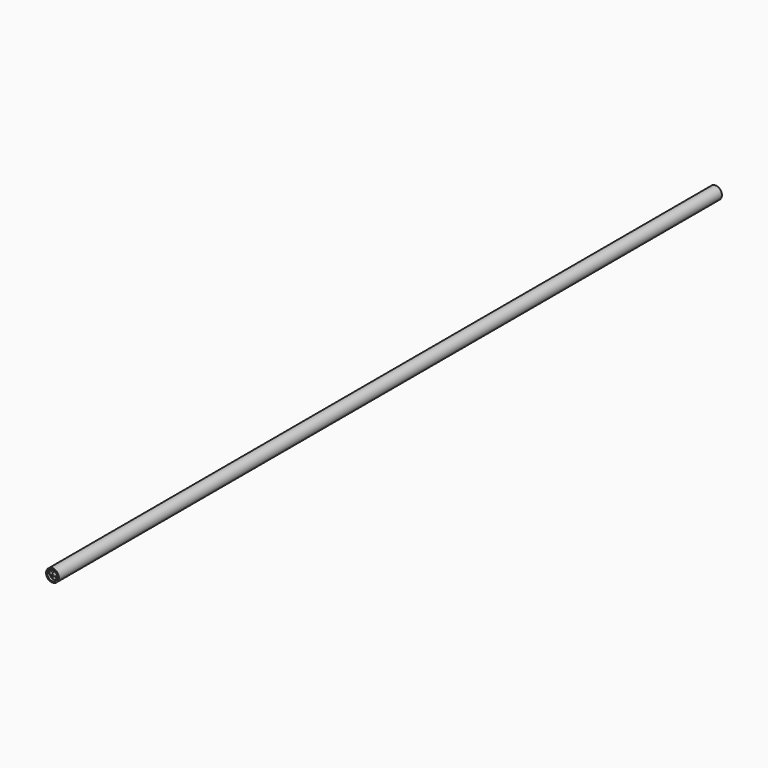
from build123d import *

# Parameters (mm, degrees)
F0_R     = 2.35
F0_R_2   = 1.9
F0_R_3   = 0.438333
F1_DEPTH = 305
F2_R     = 1.9
F2_R_2   = 0.438333
F3_DEPTH = 1


with BuildPart() as f1:
    # F0 (on Front) → F1 (new body)
    with BuildSketch(Plane.XZ):
        Circle(F0_R)
        Circle(F0_R_2, mode=Mode.SUBTRACT)
        Circle(F0_R_2)
        with Locations((-0.75, -0.75)):
            Circle(F0_R_3, mode=Mode.SUBTRACT)
        with Locations((0.75, -0.75)):
            Circle(F0_R_3, mode=Mode.SUBTRACT)
        with Locations((-0.75, 0.75)):
            Circle(F0_R_3, mode=Mode.SUBTRACT)
        with Locations((0.75, 0.75)):
            Circle(F0_R_3, mode=Mode.SUBTRACT)
    extrude(amount=F1_DEPTH)

    # F2 (on face) → F3 (cut)
    with BuildSketch(Plane.XZ.offset(305)):
        Circle(F2_R)
        with Locations((-0.75, -0.75)):
            Circle(F2_R_2, mode=Mode.SUBTRACT)
        with Locations((0.75, -0.75)):
            Circle(F2_R_2, mode=Mode.SUBTRACT)
        with Locations((-0.75, 0.75)):
            Circle(F2_R_2, mode=Mode.SUBTRACT)
        with Locations((0.75, 0.75)):
            Circle(F2_R_2, mode=Mode.SUBTRACT)
    extrude(amount=-F3_DEPTH, mode=Mode.SUBTRACT)


solid = f1.part
